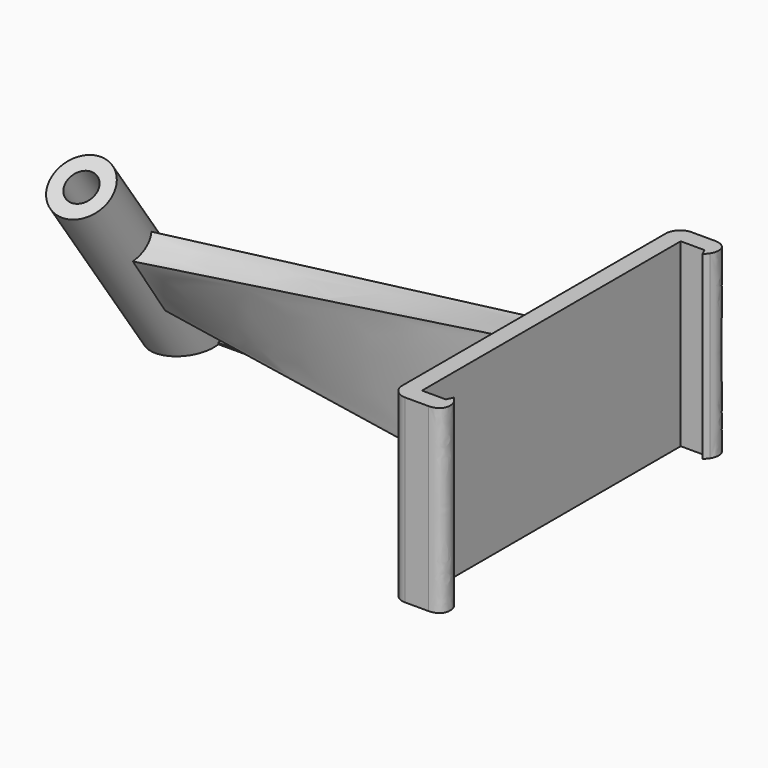
from build123d import *

# Parameters (mm, degrees)
F1_DEPTH  = 25
F4_W      = 5.5
F4_H      = 20
F9_W      = 27.424
F9_H      = 9.749
F10_DEPTH = 25
F11_W     = 1.6
F11_H     = 0.2


with BuildPart() as f1:
    # F0 (on Top) → F1 (new body)
    with BuildSketch(Plane.XY):
        with BuildLine():
            Line((0, -22.4), (0, 0))
            Line((0, 0), (0, 22.4))
            Line((0, 22.4), (3.3, 22.4))
            Line((3.3, 22.4), (3.7377447908, 21.5009007295))
            Line((3.7377447908, 21.5009007295), (4.2500217799, 22.1906429157))
            add(Edge.make_bspline(
                [(4.2500217799, 22.1906429157), (4.5826178906, 22.638458401), (4.7916104177, 24.2520123151), (3.4845446819, 24.8), (2.8422182777, 24.8)],
                knots=[0, 0, 0, 0, 0.5032486408, 1, 1, 1, 1], degree=3))
            Line((2.8422182777, 24.8), (-0.4, 24.8))
            ThreePointArc((-0.4, 24.8), (-1.8142135624, 24.2142135624), (-2.4, 22.8))
            Line((-2.4, 22.8), (-2.4, 0))
            Line((-2.4, 0), (-2.4, -22.8))
            ThreePointArc((-2.4, -22.8), (-1.8142135624, -24.2142135624), (-0.4, -24.8))
            Line((-0.4, -24.8), (2.8422182777, -24.8))
            add(Edge.make_bspline(
                [(4.2500217799, -22.1906429157), (4.5826178906, -22.638458401), (4.7916104177, -24.2520123151), (3.4845446819, -24.8), (2.8422182777, -24.8)],
                knots=[0, 0, 0, 0, 0.5032486408, 1, 1, 1, 1], degree=3))
            Line((4.2500217799, -22.1906429157), (3.7377447908, -21.5009007295))
            Line((3.7377447908, -21.5009007295), (3.3, -22.4))
            Line((3.3, -22.4), (0, -22.4))
        make_face()
    extrude(amount=F1_DEPTH)

    # F4 (on face) → F5 section 0
    with BuildSketch(Plane(origin=(-2.4, 0, 0), x_dir=(0, -1, 0), z_dir=(-1, 0, 0))):
        with Locations((0, 12.5)):
            Rectangle(F4_W, F4_H)
    # F3 (on offset) → F5 section 1
    with BuildSketch(Plane.YZ.offset(-55)):
        Polygon((4.5061862703, 9.812834642), (-1.2295780932, 18.0043550849), (-4.5061862703, 15.7100493395), (1.2295780932, 7.5185288966), align=None)
    loft()

    # F7 (on face) → F8 (revolve)
    with BuildSketch(Plane(origin=(0, 5.9959164346, 4.198385886), x_dir=(1, 0, 0), z_dir=(0, -0.8191520443, -0.5735764364))):
        Polygon((-59.2, -9.0757438921), (-59.2, 15.9242561079), (-60.1, 15.9242561079), (-60.1, 25.9242561079), (-62.1, 25.9242561079), (-62.1, -9.0757438921), align=None)
    revolve(axis=Axis((-58, -0.1314634537, 12.94919126), (0, -0.5735764364, 0.8191520443)))

    # F9 (on Front) → F10 (cut)
    with BuildSketch(Plane.XZ):
        with Locations((-57.2514572268, -4.8745)):
            Rectangle(F9_W, F9_H)
    extrude(amount=-F10_DEPTH, mode=Mode.SUBTRACT)

    # F11 (on face) → F12 (join, up to the next surface of F1)
    with BuildSketch(Plane(origin=(-2.4, 0, 0), x_dir=(0, -1, 0), z_dir=(-1, 0, 0))):
        with Locations((-10.6029133692, 0.1)):
            Rectangle(F11_W, F11_H)
    extrude(until=Until.NEXT)


solid = f1.part
